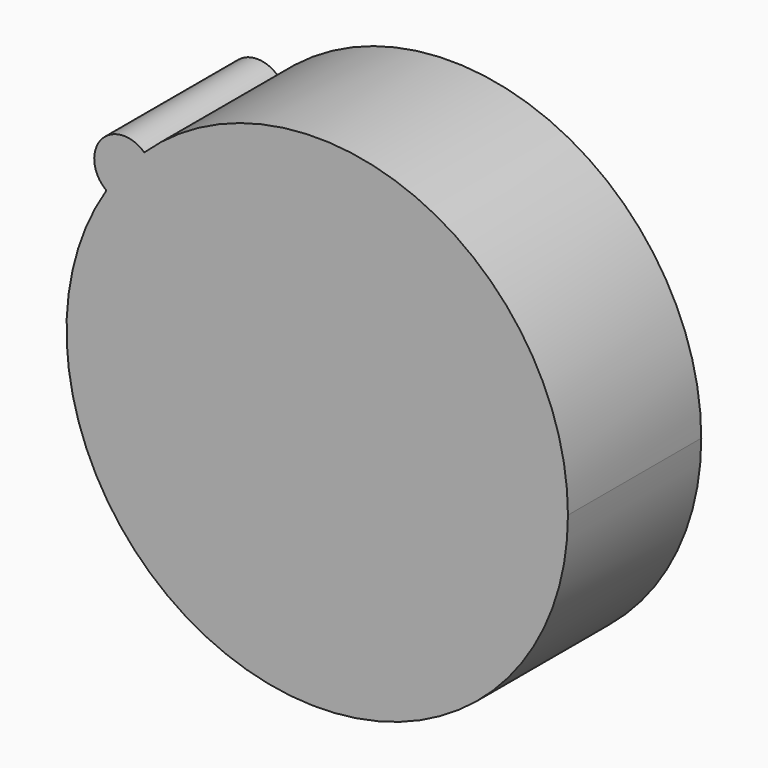
from build123d import *

# Parameters (mm, degrees)
F1_DEPTH = 25.4


with BuildPart() as f1:
    # F0 (on Front) → F1 (new body)
    with BuildSketch(Plane.XZ):
        with BuildLine():
            ThreePointArc((-32.1318141248, 20.6829724599), (-10.7792281761, -36.6612475054), (38.213071438, 0))
            ThreePointArc((38.213071438, 0), (15.0475491753, 35.1256329842), (-26.3622189594, 27.6635543678))
            ThreePointArc((-26.3622189594, 27.6635543678), (-25.2949800714, 26.1544048448), (-24.9183909456, 24.344788378))
            ThreePointArc((-24.9183909456, 24.344788378), (-27.4012326554, 20.2999654591), (-32.1318141248, 20.6829724599))
        make_face()
        with BuildLine():
            ThreePointArc((-24.9183909456, 24.344788378), (-25.2949800714, 26.1544048448), (-26.3622189594, 27.6635543678))
            ThreePointArc((-26.3622189594, 27.6635543678), (-29.4545430716, 24.344788378), (-32.1318141248, 20.6829724599))
            ThreePointArc((-32.1318141248, 20.6829724599), (-27.4012326554, 20.2999654591), (-24.9183909456, 24.344788378))
        make_face()
        with BuildLine():
            ThreePointArc((-32.1318141248, 20.6829724599), (-29.4545430716, 24.344788378), (-26.3622189594, 27.6635543678))
            ThreePointArc((-26.3622189594, 27.6635543678), (-32.9509981626, 27.2346807473), (-32.1318141248, 20.6829724599))
        make_face()
    extrude(amount=F1_DEPTH)


solid = f1.part
